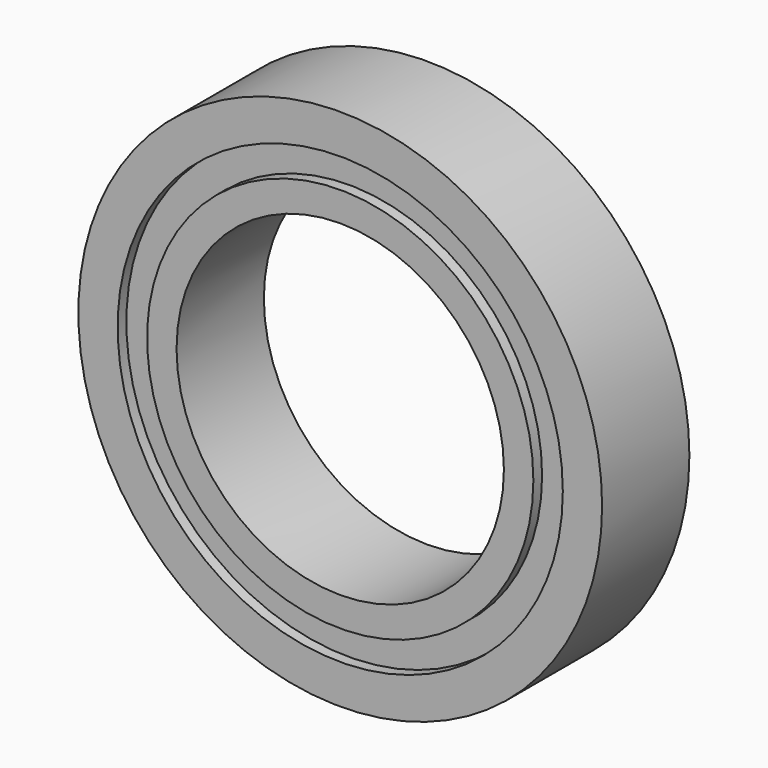
from build123d import *

# Parameters (mm, degrees)
F1_R     = 10.2
F1_R_2   = 8.85
F2_DEPTH = 2
F1_R_3   = 12
F1_R_4   = 7.5
F3_DEPTH = 2.5


with BuildPart() as f2:
    # F1 (on Front) → F2 (new body, symmetric)
    with BuildSketch(Plane.XZ):
        Circle(F1_R)
        Circle(F1_R_2, mode=Mode.SUBTRACT)
    extrude(amount=F2_DEPTH, both=True)

    # F1 (on Front) → F3 (join, symmetric)
    with BuildSketch(Plane.XZ):
        Circle(F1_R_3)
        Circle(F1_R, mode=Mode.SUBTRACT)
        Circle(F1_R_2)
        Circle(F1_R_4, mode=Mode.SUBTRACT)
    extrude(amount=F3_DEPTH, both=True)


solid = f2.part
